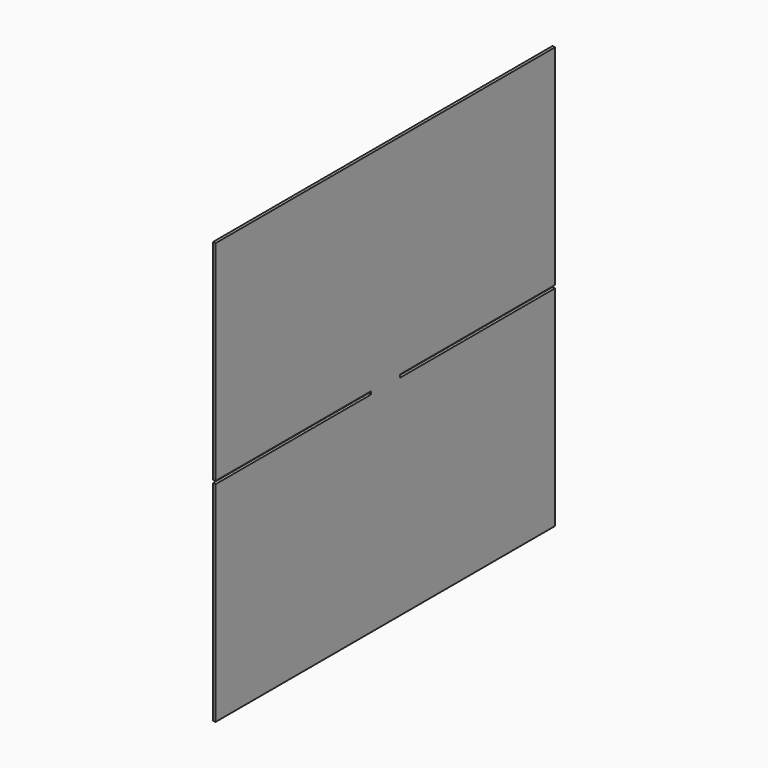
from build123d import *

# Parameters (mm, degrees)
F0_W     = 3.175
F0_H     = 466.725
F1_DEPTH = 231.775
F2_W     = 213.51875
F2_H     = 3.175
F3_DEPTH = 3.176


with BuildPart() as f1:
    # F0 (on Top) → F1 (new body, symmetric)
    with BuildSketch(Plane.XY):
        Rectangle(F0_W, F0_H)
    extrude(amount=F1_DEPTH, both=True)

    # F2 (on face) → F3 (cut, through all)
    with BuildSketch(Plane.YZ.offset(1.5875)):
        with Locations((-126.603125, 0)):
            Rectangle(F2_W, F2_H)
        with Locations((126.603125, 0)):
            Rectangle(F2_W, F2_H)
    extrude(amount=-F3_DEPTH, mode=Mode.SUBTRACT)


solid = f1.part
